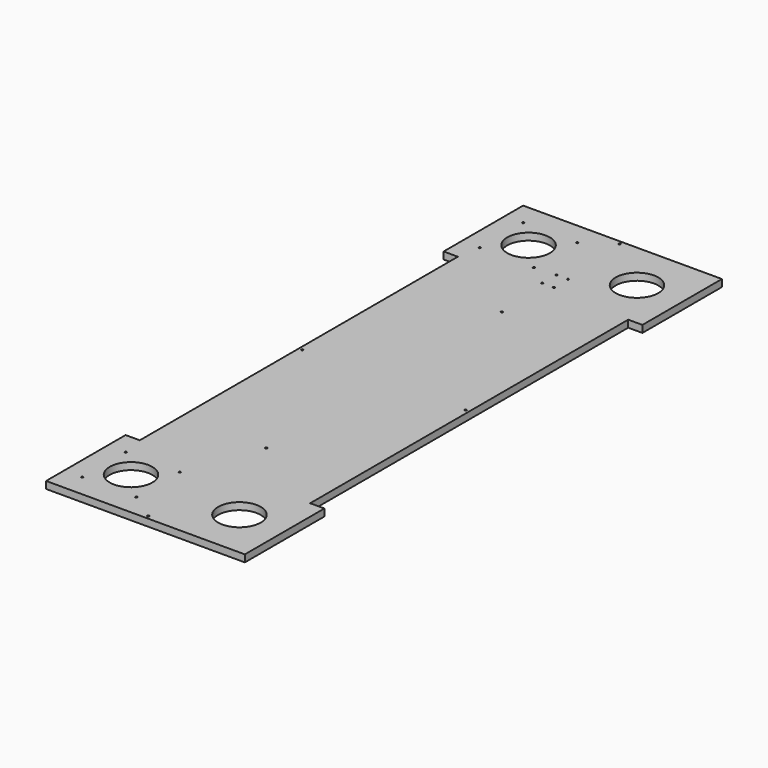
from build123d import *

# Parameters (mm, degrees)
F1_DEPTH = 12.7
F2_R     = 1.7272
F2_R_2   = 38.1
F3_DEPTH = 12.7
F4_R     = 1.7272
F5_DEPTH = 12.7


with BuildPart() as f1:
    # F0 (on Top) → F1 (new body)
    with BuildSketch(Plane.XY):
        Polygon((-152.4, 355.6), (-152.4, -355.6), (-177.8, -355.6), (-177.8, -533.4), (177.8, -533.4), (177.8, -355.6), (152.4, -355.6), (152.4, 355.6), (177.8, 355.6), (177.8, 533.4), (-177.8, 533.4), (-177.8, 355.6), align=None)
    extrude(amount=F1_DEPTH)

    # F2 (on face) → F3 (cut, through all)
    with BuildSketch(Plane.XY.offset(12.7)):
        with Locations((-145.37171, 492.881133)):
            Circle(F2_R)
        with Locations((-48.609445, 492.881133)):
            Circle(F2_R)
        with Locations((-145.37171, 396.118867)):
            Circle(F2_R)
        with Locations((-48.609445, 396.118867)):
            Circle(F2_R)
        with Locations((-145.37171, -492.881133)):
            Circle(F2_R)
        with Locations((-145.37171, -396.118867)):
            Circle(F2_R)
        with Locations((-48.609445, -492.881133)):
            Circle(F2_R)
        with Locations((-48.609445, -396.118867)):
            Circle(F2_R)
        with Locations((-96.990578, -444.5)):
            Circle(F2_R_2)
        with Locations((96.990578, -444.5)):
            Circle(F2_R_2)
        with Locations((-96.990578, 444.5)):
            Circle(F2_R_2)
        with Locations((96.990578, 444.5)):
            Circle(F2_R_2)
        with Locations((-10.31875, 366.786655)):
            Circle(F2_R)
        with Locations((10.31875, 398.536655)):
            Circle(F2_R)
        with Locations((10.31875, 366.786655)):
            Circle(F2_R)
        with Locations((-10.31875, 398.536655)):
            Circle(F2_R)
    extrude(amount=-F3_DEPTH, mode=Mode.SUBTRACT)

    # F4 (on face) → F5 (cut, through all)
    with BuildSketch(Plane.XY.offset(12.7)):
        with Locations((0, 263.525)):
            Circle(F4_R)
        with Locations((-146.05, 0)):
            Circle(F4_R)
        with Locations((146.05, 0)):
            Circle(F4_R)
        with Locations((0, 527.05)):
            Circle(F4_R)
        with Locations((0, -263.525)):
            Circle(F4_R)
        with Locations((0, -527.05)):
            Circle(F4_R)
    extrude(amount=-F5_DEPTH, mode=Mode.SUBTRACT)


solid = f1.part
